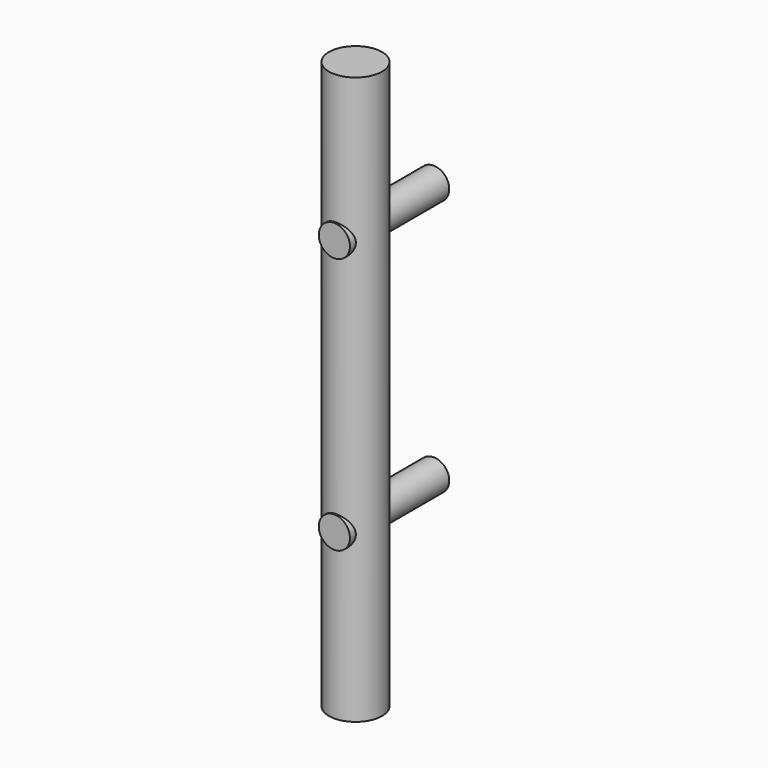
from build123d import *

# Parameters (mm, degrees)
F0_R     = 19.05
F1_DEPTH = 406.4
F2_R     = 11.1633
F3_DEPTH = 88.9


with BuildPart() as f1:
    # F0 (on Top) → F1 (new body)
    with BuildSketch(Plane.XY):
        Circle(F0_R)
    extrude(amount=F1_DEPTH)


with BuildPart() as f3:
    # F2 (on Front) → F3 (new body)
    with BuildSketch(Plane.XZ):
        with Locations((0.8915160372, 118.1893675672)):
            Circle(F2_R)
    extrude(amount=F3_DEPTH)


with BuildPart() as f3_1:
    # F4: moved
    add(f3.part.moved(Location((0, 149.86, 0))))


with BuildPart() as f5_1:
    # F5: copy of F3
    add(f3_1.part)


with BuildPart() as f3_2:
    # F6: moved
    add(f3_1.part.moved(Location((0, 0, 183.896))))


with BuildPart() as f3_3:
    # F7: moved
    add(f3_2.part.moved(Location((0, -81.026, 0))))


with BuildPart() as f5_1_1:
    # F7: moved
    add(f5_1.part.moved(Location((0, -81.026, 0))))


solid = Compound([f1.part, f3_3.part, f5_1_1.part])
